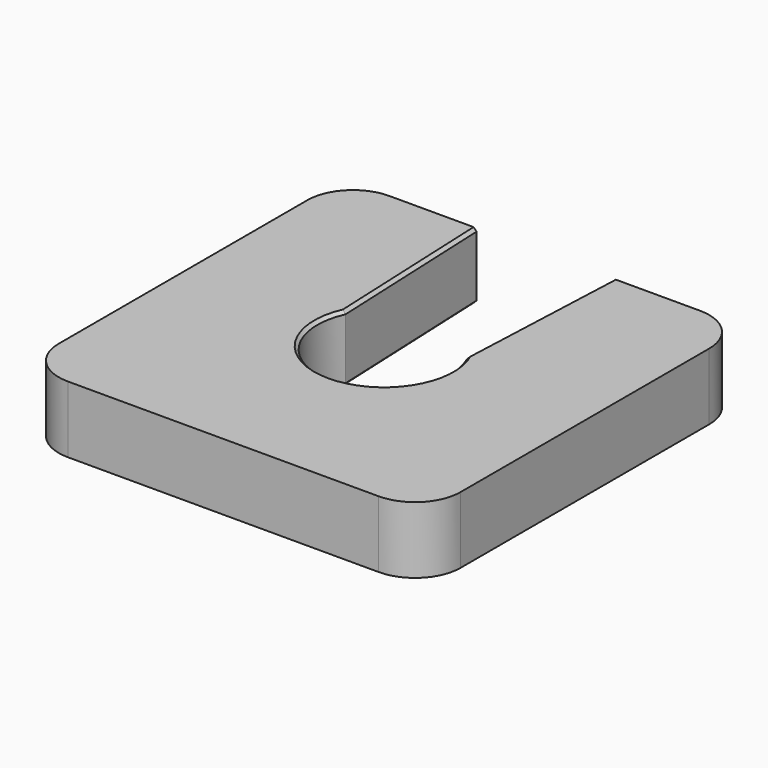
from build123d import *

# Parameters (mm, degrees)
PAD_DEPTH       = 2.2
SKETCH001_R     = 2.2
POCKET_DEPTH    = 5
POCKET001_DEPTH = 5
CHAMFER_SIZE    = 0.1
CHAMFER001_SIZE = 0.1


with BuildPart() as part:
    # Sketch → Pad (new body)
    with BuildSketch(Plane.XY):
        with BuildLine():
            Line((-5.125, 6.625), (5.125, 6.625))
            ThreePointArc((6.625, 5.125), (6.18566, 6.18566), (5.125, 6.625))
            Line((6.625, 5.125), (6.625, -5.125))
            ThreePointArc((5.125, -6.625), (6.18566, -6.18566), (6.625, -5.125))
            Line((5.125, -6.625), (-5.125, -6.625))
            ThreePointArc((-6.625, -5.125), (-6.18566, -6.18566), (-5.125, -6.625))
            Line((-6.625, -5.125), (-6.625, 5.125))
            ThreePointArc((-5.125, 6.625), (-6.18566, 6.18566), (-6.625, 5.125))
        make_face()
    extrude(amount=PAD_DEPTH)

    # Sketch001 (on Face10 of Pad) → Pocket (cut)
    with BuildSketch(Plane.XY.offset(2.2)):
        Circle(SKETCH001_R)
    extrude(amount=-POCKET_DEPTH, mode=Mode.SUBTRACT)

    # Sketch002 (on Face5 of Pocket) → Pocket001 (cut)
    with BuildSketch(Plane.XY.offset(2.2)):
        with BuildLine():
            Line((-2, 0.902418), (-2.249768, 6.693066))
            ThreePointArc((-2, 6.95384), (-2.180545, 6.876765), (-2.249768, 6.693066))
            Line((-2, 6.95384), (2, 6.95384))
            ThreePointArc((2.249768, 6.693066), (2.180545, 6.876765), (2, 6.95384))
            Line((2.249768, 6.693066), (2, 0.902418))
            Line((2, 0.902418), (-2, 0.902418))
        make_face()
    extrude(amount=-POCKET001_DEPTH, mode=Mode.SUBTRACT)

    # Chamfer
    chamfer_edges = [part.edges().sort_by_distance(p)[0] for p in [
        (-2.123694, 3.770151, 2.2),
        (-0.46839, -2.149561, 2.2),
        (2.149561, 0.46839, 2.2),
        (2.123694, 3.770151, 2.2),
    ]]
    chamfer(chamfer_edges, length=CHAMFER_SIZE)

    # Chamfer001
    chamfer001_edges = [part.edges().sort_by_distance(p)[0] for p in [
        (2.149561, 0.46839, 0),
        (2.123694, 3.770151, 0),
        (-0.46839, -2.149561, 0),
        (-2.123694, 3.770151, 0),
    ]]
    chamfer(chamfer001_edges, length=CHAMFER001_SIZE)


solid = part.part
